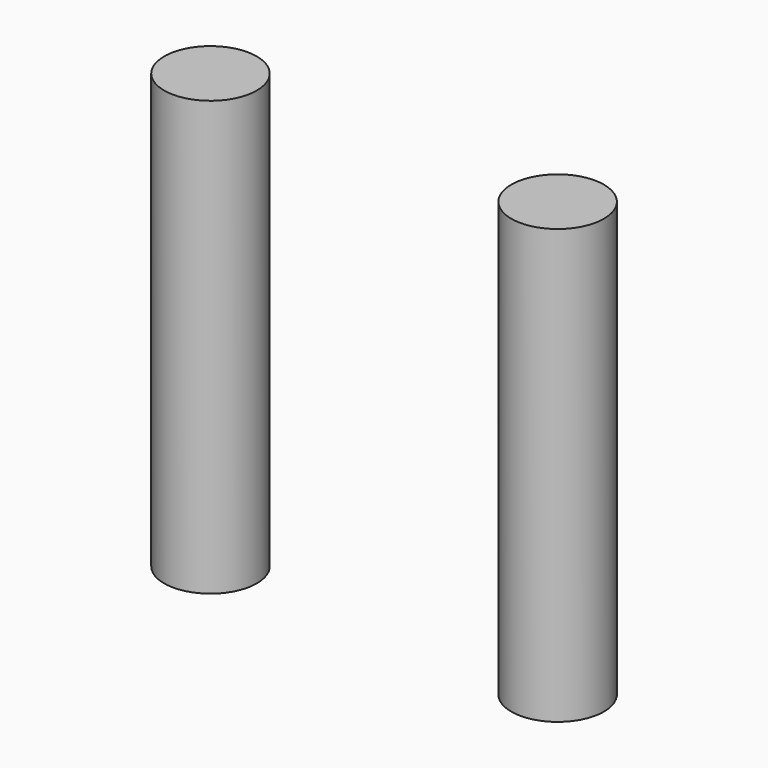
from build123d import *

# Parameters (mm, degrees)
CYLINDER035_R     = 1.6
CYLINDER035_DEPTH = 15
CYLINDER034_R     = 1.6
CYLINDER034_DEPTH = 15


with BuildPart() as cylinder035:
    # Cylinder035 → Cylinder035 (new body)
    with BuildSketch(Plane.XY):
        Circle(CYLINDER035_R)
    extrude(amount=CYLINDER035_DEPTH)


with BuildPart() as fusion069:
    # Cylinder034 → Cylinder034 (new body)
    with BuildSketch(Plane(origin=(12, 0, 0), x_dir=(1, 0, 0), z_dir=(0, 0, 1))):
        Circle(CYLINDER034_R)
    extrude(amount=CYLINDER034_DEPTH)

    # Fusion069: union Cylinder035
    add(cylinder035.part)


with BuildPart() as fusion069_1:
    # Fusion069 placement: moved
    add(fusion069.part.moved(Location((1.5, 109.5, 0))))


solid = fusion069_1.part
